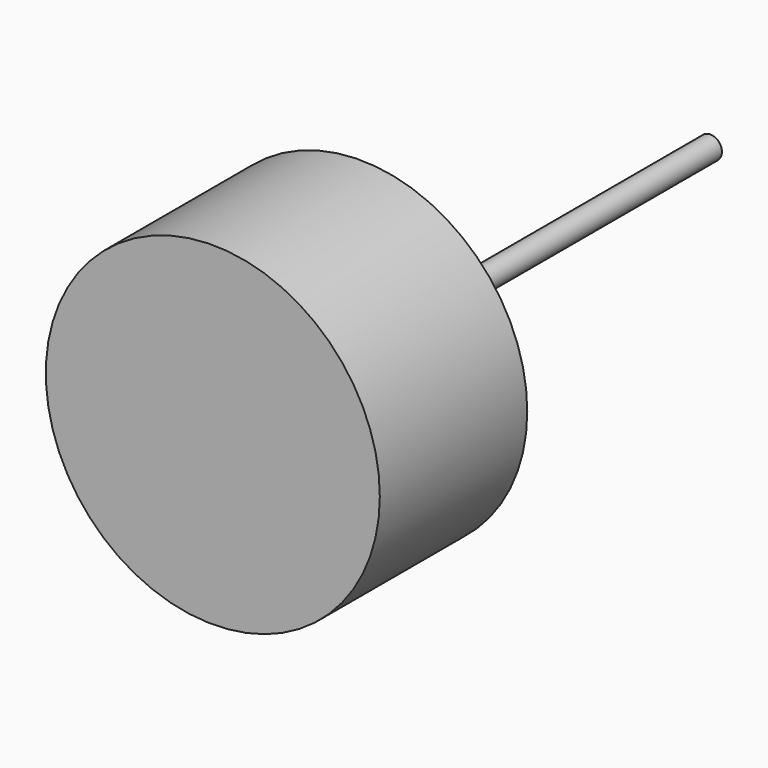
from build123d import *

# Parameters (mm, degrees)
SKETCH_R     = 14.5
PAD_DEPTH    = 16
SKETCH001_R  = 1
PAD001_DEPTH = 38


with BuildPart() as part:
    # Sketch → Pad (new body)
    with BuildSketch(Plane.XZ):
        Circle(SKETCH_R)
    extrude(amount=PAD_DEPTH)

    # Sketch001 (on Face2 of Pad) → Pad001 (join)
    with BuildSketch(Plane(origin=(0, 0, 0), x_dir=(1, 0, 0), z_dir=(0, 1, 0))):
        Circle(SKETCH001_R)
    extrude(amount=PAD001_DEPTH)


solid = part.part
